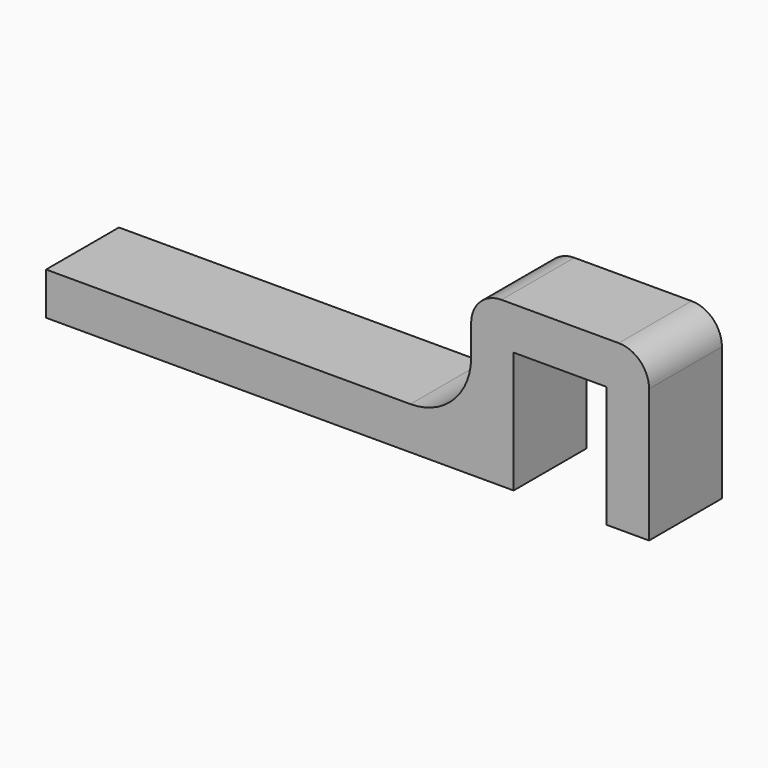
from build123d import *

# Parameters (mm, degrees)
F1_DEPTH = 15
F2_R     = 10
F3_R     = 5
F4_R     = 5


with BuildPart() as f1:
    # F0 (on Front) → F1 (new body)
    with BuildSketch(Plane.XZ):
        Polygon((41.584589, 20), (41.584589, 0), (48.584589, 0), (48.584589, 27), (19.284589, 27), (19.284589, 7), (-45.715411, 7), (-50.715411, 7), (-50.715411, 0), (26.284589, 0), (26.284589, 20), align=None)
    extrude(amount=F1_DEPTH)

    # F2
    f2_edges = [f1.edges().sort_by_distance(p)[0] for p in [
        (19.284589, -7.5, 7),
    ]]
    fillet(f2_edges, radius=F2_R)

    # F3
    f3_edges = [f1.edges().sort_by_distance(p)[0] for p in [
        (19.284589, -7.5, 27),
    ]]
    fillet(f3_edges, radius=F3_R)

    # F4
    f4_edges = [f1.edges().sort_by_distance(p)[0] for p in [
        (48.584589, -7.5, 27),
    ]]
    fillet(f4_edges, radius=F4_R)


solid = f1.part
